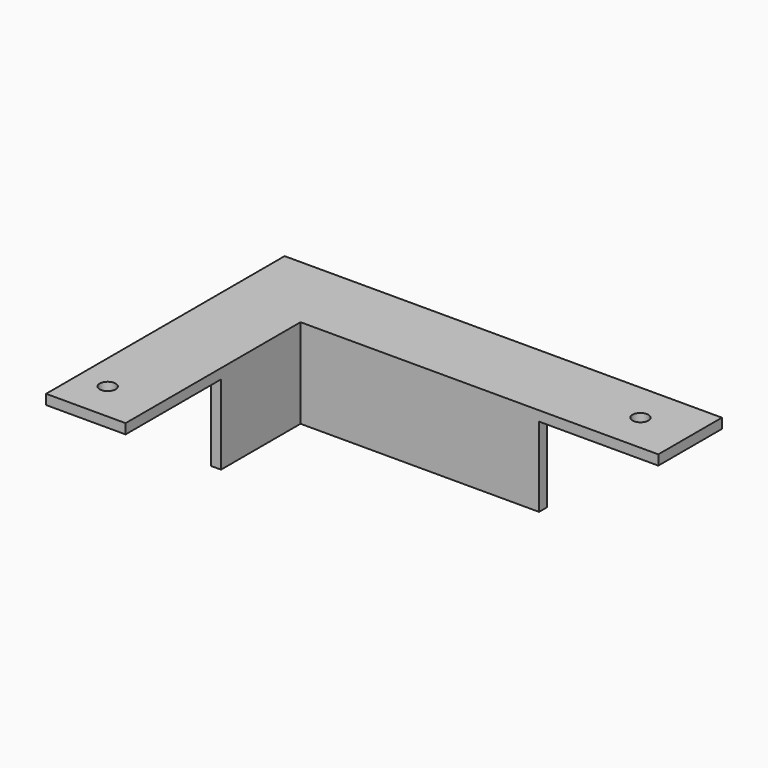
from build123d import *

# Parameters (mm, degrees)
F0_W     = 220
F0_H     = 40
F1_DEPTH = 5
F2_W     = 120
F2_H     = 5
F3_DEPTH = 40
F4_W     = 40
F4_H     = 110
F5_DEPTH = 5
F6_W     = 5
F6_H     = 55
F7_DEPTH = 40
F8_R     = 4
F9_DEPTH = 25


with BuildPart() as f1:
    # F0 (on Top) → F1 (new body)
    with BuildSketch(Plane.XY):
        Rectangle(F0_W, F0_H)
    extrude(amount=F1_DEPTH)

    # F2 (on face) → F3 (join)
    with BuildSketch(Plane(origin=(0, 0, 0), x_dir=(1, 0, 0), z_dir=(0, 0, -1))):
        with Locations((-10, 17.5)):
            Rectangle(F2_W, F2_H)
    extrude(amount=F3_DEPTH)

    # F4 (on face) → F5 (join)
    with BuildSketch(Plane(origin=(0, 0, 0), x_dir=(1, 0, 0), z_dir=(0, 0, -1))):
        with Locations((-90, 75)):
            Rectangle(F4_W, F4_H)
    extrude(amount=-F5_DEPTH)

    # F6 (on face) → F7 (join)
    with BuildSketch(Plane(origin=(0, 0, 0), x_dir=(1, 0, 0), z_dir=(0, 0, -1))):
        with Locations((-72.5, 42.5)):
            Rectangle(F6_W, F6_H)
        Polygon((-75, 15), (-70, 15), (-70, 20), (-70, 70), (-75, 70), align=None)
    extrude(amount=F7_DEPTH)

    # F8 (on face) → F9 (cut)
    with BuildSketch(Plane.XY.offset(5)):
        with Locations((-95, -110)):
            Circle(F8_R)
        with Locations((85, 0)):
            Circle(F8_R)
    extrude(amount=-F9_DEPTH, mode=Mode.SUBTRACT)


solid = f1.part
